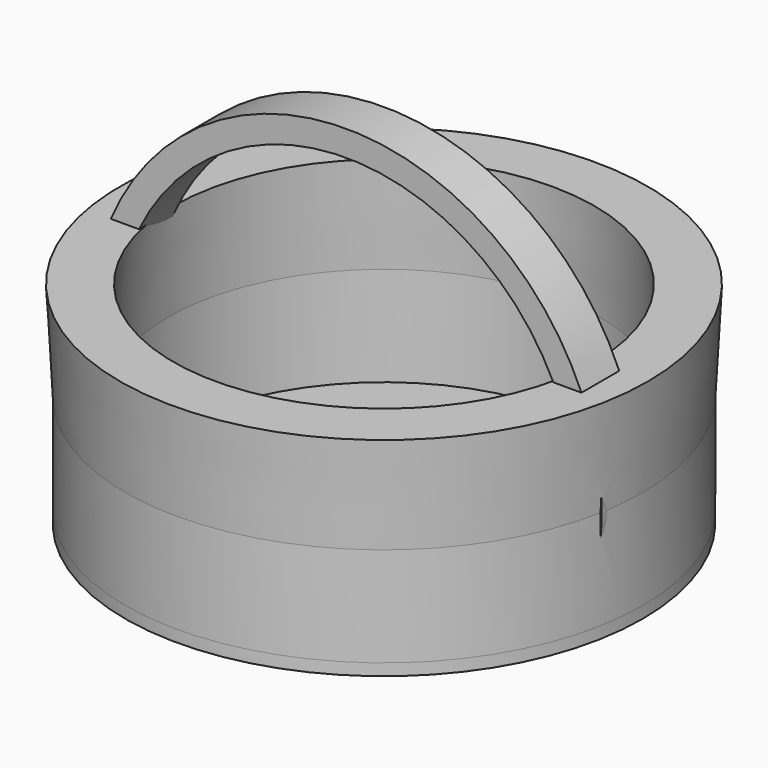
from build123d import *

# Parameters (mm, degrees)
F0_R          = 65.2372499689
F0_R_2        = 58.6990889692
F1_DEPTH      = 12.065
F2_R          = 66.0831305436
F2_R_2        = 55.1753254818
F3_DEPTH      = 25.4
F3_TAPER      = -3
F3_DEPTH_BACK = 25.4
F5_DEPTH      = 50.25
F6_R          = 66.0831305436
F7_DEPTH      = 3


with BuildPart() as f1:
    # F0 (on Front) → F1 (new body)
    with BuildSketch(Plane.XZ):
        Circle(F0_R)
        Circle(F0_R_2, mode=Mode.SUBTRACT)
    extrude(amount=F1_DEPTH)

    # F2 (on Top) → F3 (join, two sides)
    with BuildSketch(Plane.XY) as f3_sk:
        Circle(F2_R)
        Circle(F2_R_2, mode=Mode.SUBTRACT)
    extrude(amount=F3_DEPTH, taper=F3_TAPER)
    extrude(f3_sk.sketch, amount=-F3_DEPTH_BACK)

    # F4 (on Front) → F5 (cut)
    with BuildSketch(Plane.XZ):
        Polygon((66.0831305436, -25.4), (-66.0831305436, -25.4), (-61.7706626654, -79.2663544416), (70.8459764719, -79.2663544416), align=None)
    extrude(amount=F5_DEPTH, mode=Mode.SUBTRACT)

    # F6 (on face) → F7 (join)
    with BuildSketch(Plane(origin=(0, 0, -25.4), x_dir=(1, 0, 0), z_dir=(0, 0, -1))):
        Circle(F6_R)
    extrude(amount=F7_DEPTH)


solid = f1.part
